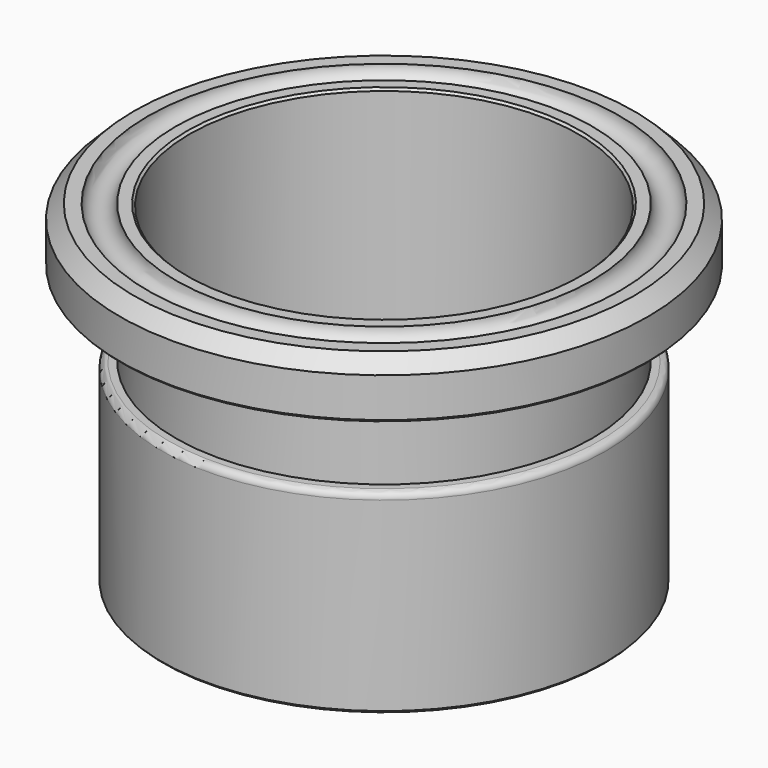
from build123d import *

# Parameters (mm, degrees)
F2_R    = 1.27
F3_SIZE = 0.254


with BuildPart() as f1:
    # F0 (on Front) → F1 (revolve)
    with BuildSketch(Plane.XZ):
        with BuildLine():
            Line((-22.225, -38.1), (-22.225, 0))
            Line((-22.225, 0), (-23.8125, 0))
            ThreePointArc((-23.8125, 0), (-25.4, -1.5875), (-26.9875, 0))
            Line((-26.9875, 0), (-28.575, 0))
            Line((-28.575, 0), (-30.1625, -1.5875))
            Line((-30.1625, -1.5875), (-30.1625, -6.35))
            Line((-30.1625, -6.35), (-23.8125, -6.35))
            Line((-23.8125, -6.35), (-23.8125, -15.875))
            Line((-23.8125, -15.875), (-24.638, -15.875))
            ThreePointArc((-24.638, -15.875), (-25.176815, -16.098185), (-25.4, -16.637))
            Line((-25.4, -16.637), (-25.4, -38.1))
            Line((-25.4, -38.1), (-22.225, -38.1))
        make_face()
    revolve(axis=Axis((0, 0, -15.143116), (0, 0, -1)))

    # F2
    f2_edges = [f1.edges().sort_by_distance(p)[0] for p in [
        (23.8125, 0, -6.35),
    ]]
    fillet(f2_edges, radius=F2_R)

    # F3
    f3_edges = [f1.edges().sort_by_distance(p)[0] for p in [
        (30.1625, 0, -6.35),
        (25.4, 0, -38.1),
        (22.225, 0, 0),
        (22.225, 0, -38.1),
    ]]
    chamfer(f3_edges, length=F3_SIZE)


solid = f1.part
